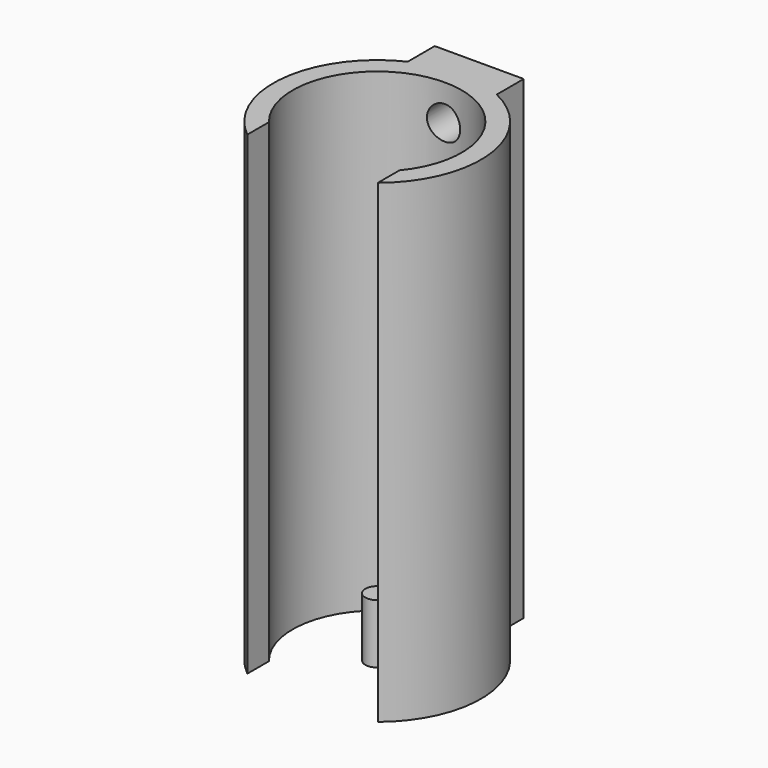
from build123d import *

# Parameters (mm, degrees)
SKETCH_R          = 17.5
PAD_DEPTH         = 80
SKETCH001_R       = 14.25
POCKET_DEPTH      = 80.001
SKETCH002_W       = 15
SKETCH002_H       = 6
PAD001_DEPTH      = 80
SKETCH003_W       = 22
SKETCH003_H       = 25
POCKET001_DEPTH   = 80.001
SKETCH004_R       = 2.8
POCKET002_DEPTH   = 35.111658
POCKET003_DEPTH   = 25
CYLINDER_R        = 2
CYLINDER_DEPTH    = 10
CYLINDER001_R     = 2
CYLINDER001_DEPTH = 10


with BuildPart() as pocket003:
    # Sketch → Pad (new body)
    with BuildSketch(Plane.XY):
        Circle(SKETCH_R)
    extrude(amount=PAD_DEPTH)

    # Sketch001 → Pocket (cut, through all)
    with BuildSketch(Plane.XY.offset(80)):
        Circle(SKETCH001_R)
    extrude(amount=-POCKET_DEPTH, mode=Mode.SUBTRACT)

    # Sketch002 → Pad001 (new body)
    with BuildSketch(Plane.XY.offset(80)):
        with Locations((0, 18.5)):
            Rectangle(SKETCH002_W, SKETCH002_H)
    extrude(amount=-PAD001_DEPTH)

    # Sketch003 → Pocket001 (cut, through all)
    with BuildSketch(Plane.XY.offset(80)):
        with Locations((0, -12.5)):
            Rectangle(SKETCH003_W, SKETCH003_H)
    extrude(amount=-POCKET001_DEPTH, mode=Mode.SUBTRACT)

    # Sketch004 → Pocket002 (cut, through all)
    with BuildSketch(Plane(origin=(0, 21.5, 0), x_dir=(-1, 0, 0), z_dir=(0, 1, 0))):
        with Locations((0, 74)):
            Circle(SKETCH004_R)
        with Locations((0, 10)):
            Circle(SKETCH004_R)
    extrude(amount=-POCKET002_DEPTH, mode=Mode.SUBTRACT)

    # Sketch005 → Pocket003 (cut, symmetric)
    with BuildSketch(Plane(origin=(-6, 0, 0), x_dir=(0, -1, 0), z_dir=(-1, 0, 0))):
        Polygon((-15.169251, 52.121307), (-17.290584, 50), (-17.290584, 29.999974), (-15.169264, 27.878654), (-13.047943, 29.999974), (-13.047943, 49.999974), align=None)
    extrude(amount=POCKET003_DEPTH, both=True, mode=Mode.SUBTRACT)


with BuildPart() as cylinder:
    # Cylinder → Cylinder (new body)
    with BuildSketch(Plane.XY):
        Circle(CYLINDER_R)
    extrude(amount=CYLINDER_DEPTH)


with BuildPart() as cylinder001:
    # Cylinder001 → Cylinder001 (new body)
    with BuildSketch(Plane.XY):
        Circle(CYLINDER001_R)
    extrude(amount=CYLINDER001_DEPTH)


solid = Compound([pocket003.part, cylinder.part, cylinder001.part])
